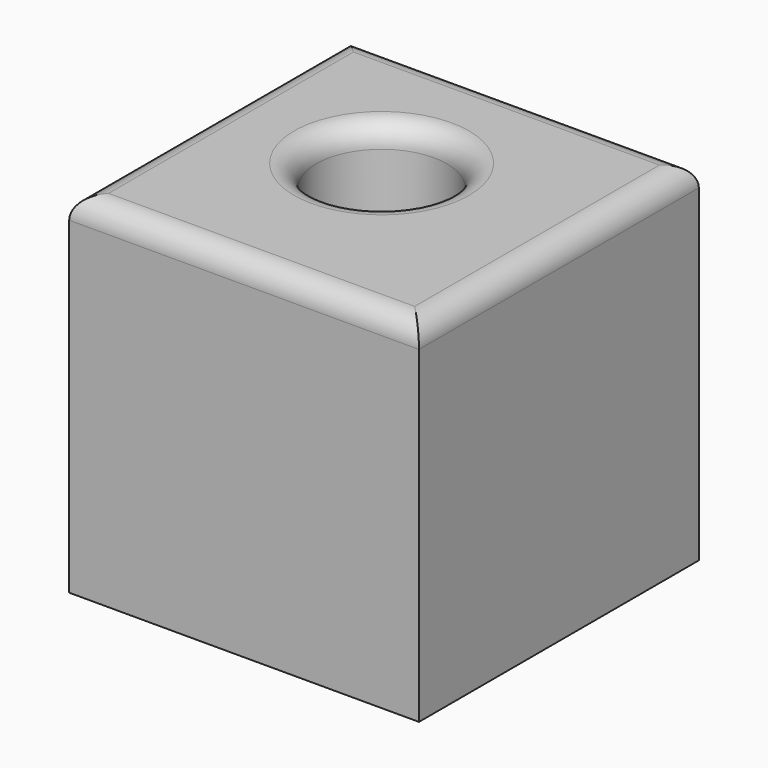
from build123d import *

# Parameters (mm, degrees)
F0_W     = 80
F0_H     = 80
F1_DEPTH = 80
F2_R     = 15
F3_DEPTH = 80.001
F4_R     = 5


with BuildPart() as f1:
    # F0 (on Top) → F1 (new body)
    with BuildSketch(Plane.XY):
        with Locations((-35.7171420656, 20.8788011223)):
            Rectangle(F0_W, F0_H)
    extrude(amount=F1_DEPTH)

    # F2 (on face) → F3 (cut, through all)
    with BuildSketch(Plane.XY.offset(80)):
        with Locations((-39.9288013577, 25.4507996142)):
            Circle(F2_R)
    extrude(amount=-F3_DEPTH, mode=Mode.SUBTRACT)

    # F4
    f4_edges = [f1.edges().sort_by_distance(p)[0] for p in [
        (-35.717142, 60.878801, 80),
        (4.282858, 20.878801, 80),
        (-75.717142, 20.878801, 80),
        (-35.717142, -19.121199, 80),
        (-54.928801, 25.4508, 80),
    ]]
    fillet(f4_edges, radius=F4_R)


solid = f1.part
